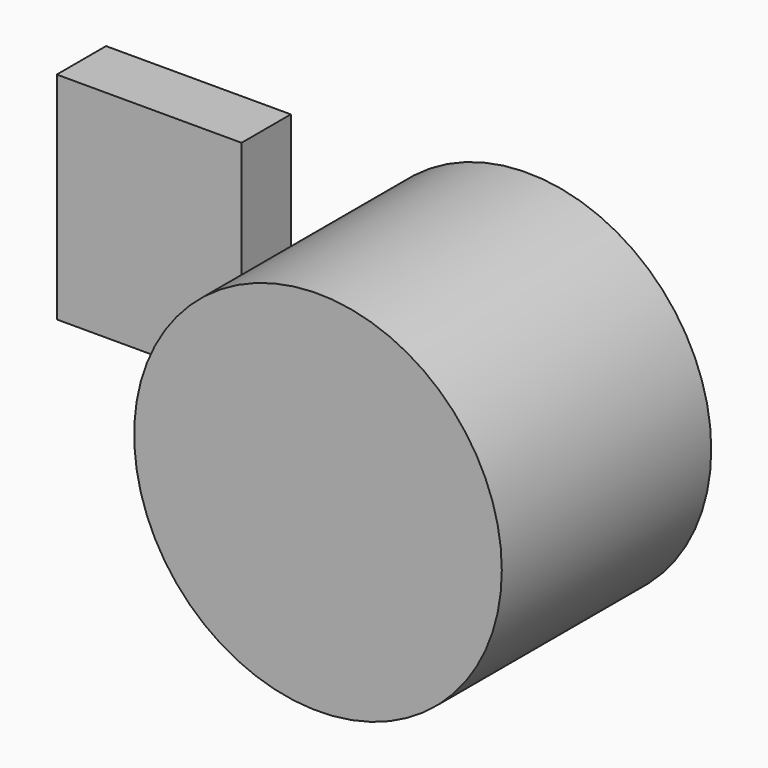
from build123d import *

# Parameters (mm, degrees)
F0_R     = 75.794125
F1_DEPTH = 107.95
F2_W     = 76.2
F2_H     = 88.9
F3_DEPTH = 25.4


with BuildPart() as f1:
    # F0 (on Front) → F1 (new body)
    with BuildSketch(Plane.XZ):
        Circle(F0_R)
    extrude(amount=F1_DEPTH)


with BuildPart() as f3:
    # F2 (on Front) → F3 (new body)
    with BuildSketch(Plane.XZ):
        with Locations((-135.654937, 20.803828)):
            Rectangle(F2_W, F2_H)
    extrude(amount=F3_DEPTH)


solid = Compound([f1.part, f3.part])
